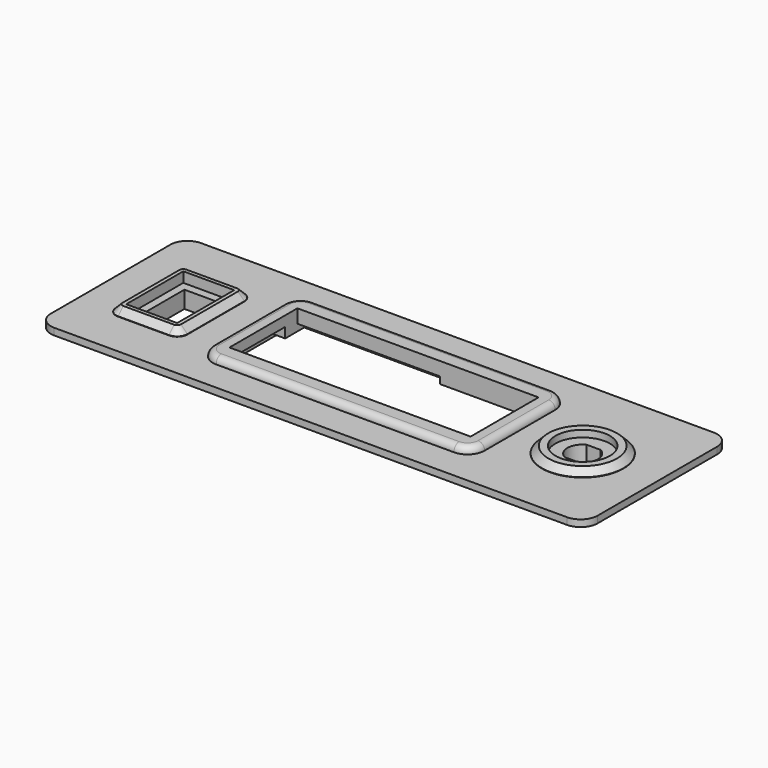
from build123d import *

# Parameters (mm, degrees)
SKETCH_W        = 151
SKETCH_H        = 44
PAD_DEPTH       = 2
SKETCH001_W     = 161
SKETCH001_H     = 54
PAD001_DEPTH    = 2
SKETCH002_W     = 21
SKETCH002_H     = 27
PAD002_DEPTH    = 2
SKETCH003_W     = 15
SKETCH003_H     = 21
POCKET_DEPTH    = 3
SKETCH004_W     = 10.191287
SKETCH004_H     = 16.176647
POCKET001_DEPTH = 3.001
CHAMFER_SIZE    = 5
FILLET_R        = 5
FILLET001_R     = 3
CHAMFER001_SIZE = 1.9
SKETCH005_R     = 12
PAD003_DEPTH    = 2
SKETCH006_R     = 8
POCKET002_DEPTH = 2
CHAMFER002_SIZE = 1.9
SKETCH007_R     = 12
PAD004_DEPTH    = 2
POCKET003_DEPTH = 6.001
SKETCH009_W     = 80
SKETCH009_H     = 36
SKETCH009_W_2   = 71
SKETCH009_H_2   = 25
PAD005_DEPTH    = 2
FILLET002_R     = 5
SKETCH010_W     = 71
SKETCH010_H     = 25
POCKET004_DEPTH = 6.001
FILLET003_R     = 1.9
SKETCH011_W     = 85
SKETCH011_H     = 40
SKETCH011_W_2   = 81
SKETCH011_H_2   = 36
PAD006_DEPTH    = 2
SKETCH012_W     = 42
SKETCH012_H     = 5.5
POCKET005_DEPTH = 2
SKETCH013_W     = 5
SKETCH013_H     = 16
POCKET006_DEPTH = 3
SKETCH014_W     = 14.191287
SKETCH014_H     = 20.176647
SKETCH014_W_2   = 10.191287
SKETCH014_H_2   = 16.176647
PAD007_DEPTH    = 2


with BuildPart() as part:
    # Sketch → Pad (new body)
    with BuildSketch(Plane.XY):
        with Locations((75.5, 22)):
            Rectangle(SKETCH_W, SKETCH_H)
    extrude(amount=PAD_DEPTH)

    # Sketch001 (on Face6 of Pad) → Pad001 (join)
    with BuildSketch(Plane.XY.offset(2)):
        with Locations((75.5, 22)):
            Rectangle(SKETCH001_W, SKETCH001_H)
    extrude(amount=PAD001_DEPTH)

    # Sketch002 (on Face11 of Pad001) → Pad002 (join)
    with BuildSketch(Plane.XY.offset(4)):
        with Locations((15.5, 22)):
            Rectangle(SKETCH002_W, SKETCH002_H)
    extrude(amount=PAD002_DEPTH)

    # Sketch003 (on Face16 of Pad002) → Pocket (cut)
    with BuildSketch(Plane.XY.offset(6)):
        with Locations((15.5, 22)):
            Rectangle(SKETCH003_W, SKETCH003_H)
    extrude(amount=-POCKET_DEPTH, mode=Mode.SUBTRACT)

    # Sketch004 (on Face21 of Pocket) → Pocket001 (cut, through all)
    with BuildSketch(Plane.XY.offset(3)):
        with Locations((15.416752, 21.925829)):
            Rectangle(SKETCH004_W, SKETCH004_H)
    extrude(amount=-POCKET001_DEPTH, mode=Mode.SUBTRACT)

    # Chamfer
    chamfer_edges = [part.edges().sort_by_distance(p)[0] for p in [
        (151, 0, 1),
        (151, 44, 1),
        (0, 44, 1),
        (0, 0, 1),
    ]]
    chamfer(chamfer_edges, length=CHAMFER_SIZE)

    # Fillet
    fillet_edges = [part.edges().sort_by_distance(p)[0] for p in [
        (-5, -5, 3),
        (-5, 49, 3),
        (156, -5, 3),
        (156, 49, 3),
    ]]
    fillet(fillet_edges, radius=FILLET_R)

    # Fillet001
    fillet001_edges = [part.edges().sort_by_distance(p)[0] for p in [
        (26, 8.5, 5),
        (26, 35.5, 5),
        (5, 8.5, 5),
        (5, 35.5, 5),
    ]]
    fillet(fillet001_edges, radius=FILLET001_R)

    # Chamfer001
    chamfer001_edges = [part.edges().sort_by_distance(p)[0] for p in [
        (5, 22, 6),
    ]]
    chamfer(chamfer001_edges, length=CHAMFER001_SIZE)

    # Sketch005 (on Face4 of Chamfer001) → Pad003 (join)
    with BuildSketch(Plane.XY.offset(4)):
        with Locations((134, 22)):
            Circle(SKETCH005_R)
    extrude(amount=PAD003_DEPTH)

    # Sketch006 (on Face33 of Pad003) → Pocket002 (cut)
    with BuildSketch(Plane.XY.offset(6)):
        with Locations((134, 22)):
            Circle(SKETCH006_R)
    extrude(amount=-POCKET002_DEPTH, mode=Mode.SUBTRACT)

    # Chamfer002
    chamfer002_edges = [part.edges().sort_by_distance(p)[0] for p in [
        (122, 22, 6),
    ]]
    chamfer(chamfer002_edges, length=CHAMFER002_SIZE)

    # Sketch007 (on Face41 of Chamfer002) → Pad004 (join)
    with BuildSketch(Plane(origin=(0, 0, 0), x_dir=(1, 0, 0), z_dir=(0, 0, -1))):
        with Locations((134, -22)):
            Circle(SKETCH007_R)
    extrude(amount=PAD004_DEPTH)

    # Sketch008 (on Face31 of Pad004) → Pocket003 (cut, through all)
    with BuildSketch(Plane.XY.offset(4)):
        with BuildLine():
            ThreePointArc((131.938447, 26), (129.5, 22), (131.938447, 18))
            Line((136.061553, 18), (131.938447, 18))
            ThreePointArc((136.061553, 18), (138.5, 22), (136.061553, 26))
            Line((131.938447, 26), (136.061553, 26))
        make_face()
    extrude(amount=-POCKET003_DEPTH, mode=Mode.SUBTRACT)

    # Sketch009 (on Face3 of Pocket003) → Pad005 (join)
    with BuildSketch(Plane.XY.offset(4)):
        with Locations((75.5, 22)):
            Rectangle(SKETCH009_W, SKETCH009_H)
        with Locations((75.5, 22)):
            Rectangle(SKETCH009_W_2, SKETCH009_H_2, mode=Mode.SUBTRACT)
    extrude(amount=PAD005_DEPTH)

    # Fillet002
    fillet002_edges = [part.edges().sort_by_distance(p)[0] for p in [
        (115.5, 4, 5),
        (115.5, 40, 5),
        (35.5, 4, 5),
        (35.5, 40, 5),
    ]]
    fillet(fillet002_edges, radius=FILLET002_R)

    # Sketch010 (on Face52 of Fillet002) → Pocket004 (cut, through all)
    with BuildSketch(Plane.XY.offset(4)):
        with Locations((75.5, 22)):
            Rectangle(SKETCH010_W, SKETCH010_H)
    extrude(amount=-POCKET004_DEPTH, mode=Mode.SUBTRACT)

    # Fillet003
    fillet003_edges = [part.edges().sort_by_distance(p)[0] for p in [
        (75.5, 40, 6),
    ]]
    fillet(fillet003_edges, radius=FILLET003_R)

    # Sketch011 (on Face64 of Fillet003) → Pad006 (join)
    with BuildSketch(Plane(origin=(0, 0, 0), x_dir=(1, 0, 0), z_dir=(0, 0, -1))):
        with Locations((75.5, -22)):
            Rectangle(SKETCH011_W, SKETCH011_H)
        with Locations((75.5, -22)):
            Rectangle(SKETCH011_W_2, SKETCH011_H_2, mode=Mode.SUBTRACT)
    extrude(amount=PAD006_DEPTH)

    # Sketch012 (on Face64 of Pad006) → Pocket005 (cut)
    with BuildSketch(Plane(origin=(0, 0, 0), x_dir=(1, 0, 0), z_dir=(0, 0, -1))):
        with Locations((90, -6.75)):
            Rectangle(SKETCH012_W, SKETCH012_H)
        with Locations((61, -37.25)):
            Rectangle(SKETCH012_W, SKETCH012_H)
    extrude(amount=-POCKET005_DEPTH, mode=Mode.SUBTRACT)

    # Sketch013 (on Face68 of Pocket005) → Pocket006 (cut)
    with BuildSketch(Plane(origin=(0, 0, 0), x_dir=(1, 0, 0), z_dir=(0, 0, -1))):
        with Locations((37.5, -22)):
            Rectangle(SKETCH013_W, SKETCH013_H)
        with Locations((113.5, -22)):
            Rectangle(SKETCH013_W, SKETCH013_H)
    extrude(amount=-POCKET006_DEPTH, mode=Mode.SUBTRACT)

    # Sketch014 (on Face80 of Pocket006) → Pad007 (join)
    with BuildSketch(Plane(origin=(0, 0, 0), x_dir=(1, 0, 0), z_dir=(0, 0, -1))):
        with Locations((15.416752, -21.925829)):
            Rectangle(SKETCH014_W, SKETCH014_H)
        with Locations((15.416752, -21.925829)):
            Rectangle(SKETCH014_W_2, SKETCH014_H_2, mode=Mode.SUBTRACT)
    extrude(amount=PAD007_DEPTH)


solid = part.part
